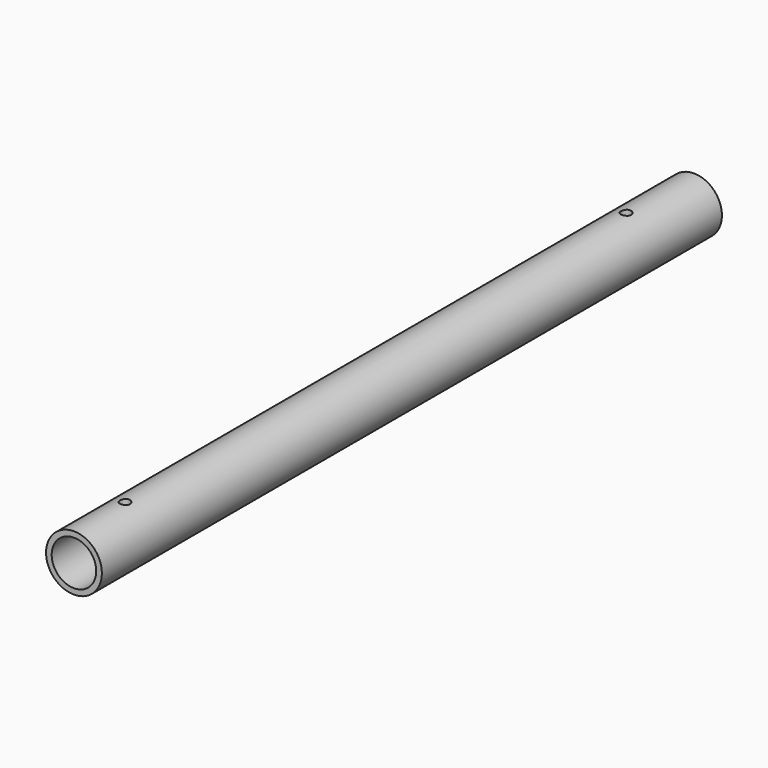
from build123d import *

# Parameters (mm, degrees)
SKETCH_R     = 16.7005
SKETCH_R_2   = 13.3223
PAD_DEPTH    = 231.775
SKETCH001_R  = 3.048
POCKET_DEPTH = 12.7


with BuildPart() as part:
    # Sketch → Pad (new body, symmetric)
    with BuildSketch(Plane.XZ):
        Circle(SKETCH_R)
        Circle(SKETCH_R_2, mode=Mode.SUBTRACT)
    extrude(amount=PAD_DEPTH, both=True)

    # Sketch001 (on DatumPlane) → Pocket (cut)
    with BuildSketch(Plane(origin=(0, -231.775, 19.2405), x_dir=(1, 0, 0), z_dir=(0, 0, 1))):
        with Locations((0, 38.1)):
            Circle(SKETCH001_R)
        with Locations((0, 412.75)):
            Circle(SKETCH001_R)
    extrude(amount=-POCKET_DEPTH, mode=Mode.SUBTRACT)


solid = part.part
